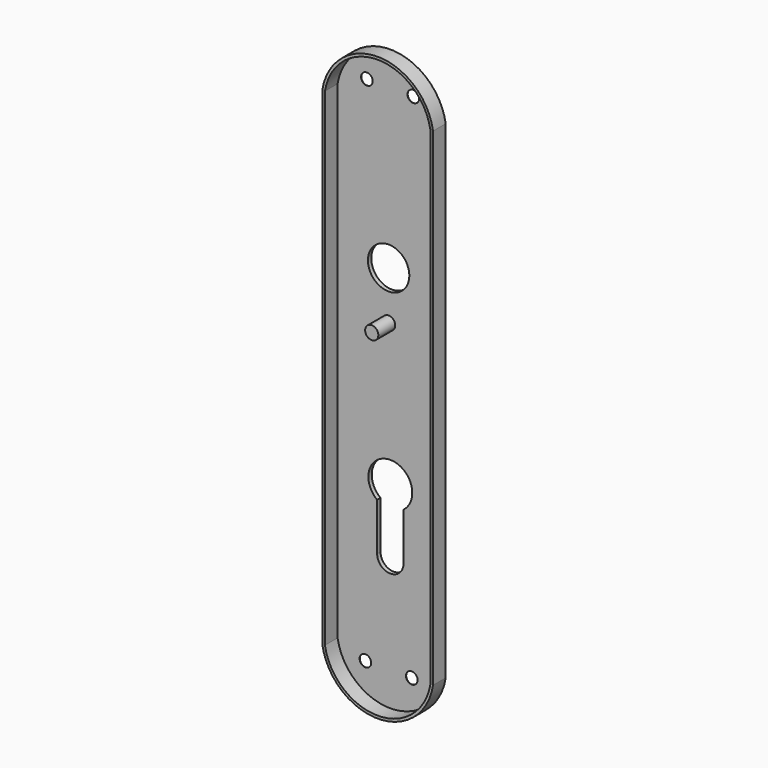
from build123d import *

# Parameters (mm, degrees)
F1_DEPTH = 6
F0_R     = 2.2
F2_DEPTH = 0.1
F4_DEPTH = 1.5
F5_R     = 1
F6_R     = 7.85
F7_DEPTH = 25
F8_R     = 2.5
F9_DEPTH = 8


with BuildPart() as f1:
    # F0 (on Front) → F1 (new body)
    with BuildSketch(Plane.XZ):
        with BuildLine():
            Line((21.657042, -93.626467), (21.657042, 91.373533))
            ThreePointArc((21.657042, 91.373533), (0.657042, 109.373533), (-20.342958, 91.373533))
            Line((-20.342958, 91.373533), (-20.342958, -93.626467))
            ThreePointArc((-20.342958, -93.626467), (0.657042, -111.626467), (21.657042, -93.626467))
        make_face()
        with BuildLine():
            Line((-19.342958, -93.626467), (-19.342958, 91.373533))
            ThreePointArc((-19.342958, 91.373533), (0.657042, 108.373533), (20.657042, 91.373533))
            Line((20.657042, 91.373533), (20.657042, -93.626467))
            ThreePointArc((20.657042, -93.626467), (0.657042, -110.626467), (-19.342958, -93.626467))
        make_face(mode=Mode.SUBTRACT)
    extrude(amount=F1_DEPTH)

    # F0 (on Front) → F2 (join)
    with BuildSketch(Plane.XZ):
        with BuildLine():
            ThreePointArc((20.657042, 91.373533), (0.657042, 108.373533), (-19.342958, 91.373533))
            Line((-19.342958, 91.373533), (-19.342958, -93.626467))
            ThreePointArc((-19.342958, -93.626467), (0.657042, -110.626467), (20.657042, -93.626467))
            Line((20.657042, -93.626467), (20.657042, 91.373533))
        make_face()
        with Locations((-8.8, -97.826467)):
            Circle(F0_R, mode=Mode.SUBTRACT)
        with Locations((8.8, -97.826467)):
            Circle(F0_R, mode=Mode.SUBTRACT)
        with Locations((-8.229091, 96.573533)):
            Circle(F0_R, mode=Mode.SUBTRACT)
        with Locations((9.370612, 96.471283)):
            Circle(F0_R, mode=Mode.SUBTRACT)
    extrude(amount=-F2_DEPTH)

    # F3 (on face) → F4 (join)
    with BuildSketch(Plane(origin=(0, 0.1, 0), x_dir=(-1, 0, 0), z_dir=(0, 1, 0))):
        with BuildLine():
            ThreePointArc((14.342958, 80.349935), (-0.657042, 87.349935), (-15.657042, 80.349935))
            Line((-15.657042, 80.349935), (-15.657042, -82.650065))
            ThreePointArc((-15.657042, -82.650065), (-0.657042, -89.650065), (14.342958, -82.650065))
            Line((14.342958, -82.650065), (14.342958, 80.349935))
        make_face()
    extrude(amount=F4_DEPTH)

    # F5
    f5_edges = [f1.edges().sort_by_distance(p)[0] for p in [
        (15.657042, 1.6, -1.150065),
        (0.657042, 1.6, -89.650065),
        (0.657042, 1.6, 87.349935),
        (-14.342958, 1.6, -1.150065),
    ]]
    fillet(f5_edges, radius=F5_R)

    # F6 (on face) → F7 (cut)
    with BuildSketch(Plane(origin=(0, 1.6, 0), x_dir=(-1, 0, 0), z_dir=(0, 1, 0))):
        with BuildLine():
            ThreePointArc((-5.657042, -60.650065), (-0.657042, -65.650065), (4.342958, -60.650065))
            Line((4.342958, -60.650065), (4.342958, -42.650065))
            ThreePointArc((4.342958, -42.650065), (-0.657042, -27.668818), (-5.657042, -42.650065))
            Line((-5.657042, -42.650065), (-5.657042, -60.650065))
        make_face()
        with Locations((0, 36.173533)):
            Circle(F6_R)
    extrude(amount=-F7_DEPTH, mode=Mode.SUBTRACT)

    # F8 (on face) → F9 (join)
    with BuildSketch(Plane.XZ):
        with Locations((0, 17.823533)):
            Circle(F8_R)
    extrude(amount=F9_DEPTH)


solid = f1.part
